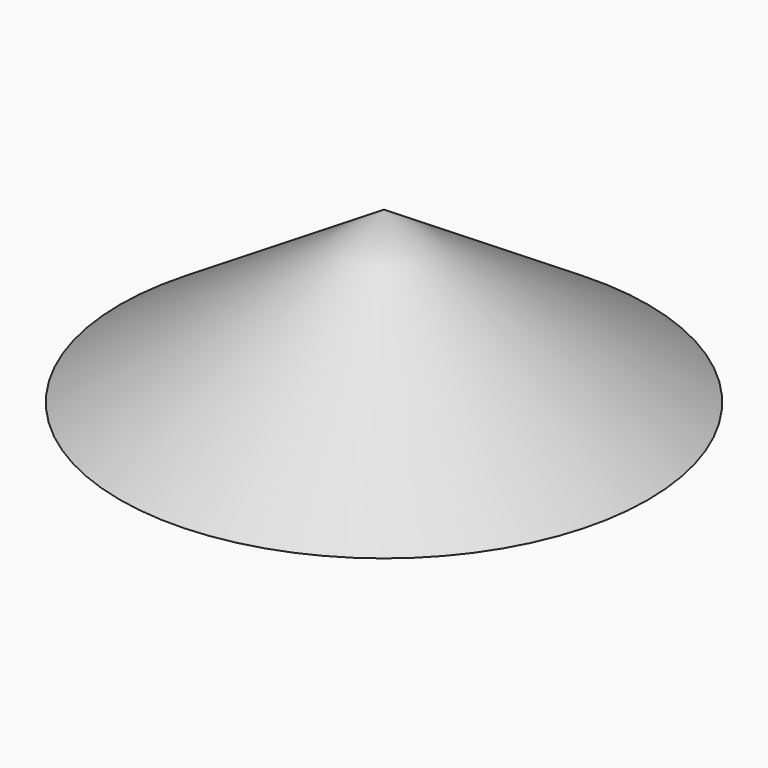
from build123d import *

# Parameters (mm, degrees)
F0_R     = 24.9996408851
F1_DEPTH = 30.48
F1_TAPER = 57.2957795131
F2_R     = 2.2732669584
F3_DEPTH = 30.48


with BuildPart() as f1:
    # F0 (on Top) → F1 (new body)
    with BuildSketch(Plane.XY):
        Circle(F0_R)
    extrude(amount=F1_DEPTH, taper=F1_TAPER)

    # F2 (on Top) → F3 (cut)
    with BuildSketch(Plane.XY):
        with Locations((-13.6049399152, 5.992651917)):
            Circle(F2_R)
    extrude(amount=F3_DEPTH, mode=Mode.SUBTRACT)


solid = f1.part
